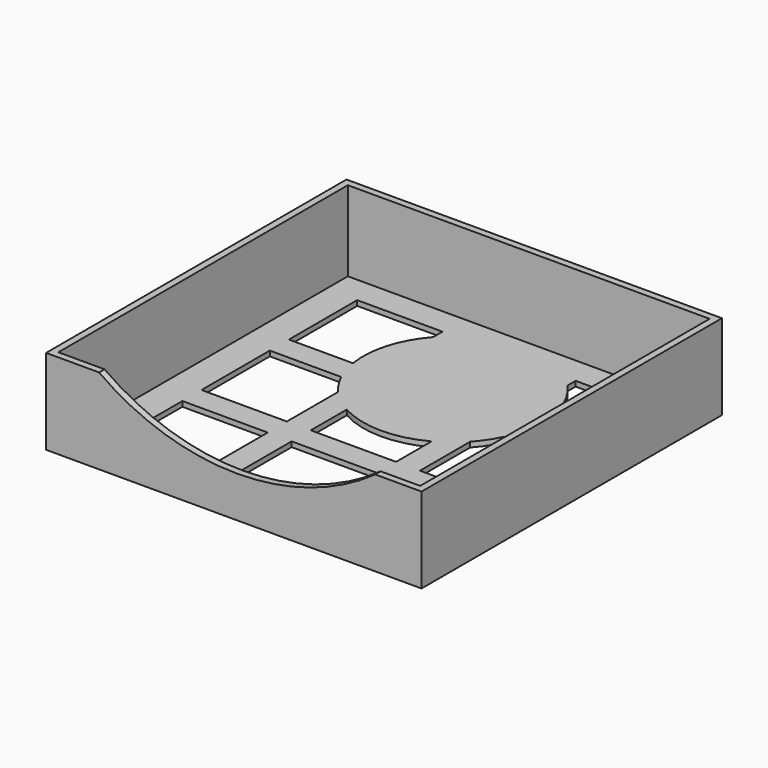
from build123d import *

# Parameters (mm, degrees)
F0_W     = 110
F0_H     = 110
F0_W_2   = 106
F0_H_2   = 106
F1_DEPTH = 25
F2_W     = 106
F2_H     = 106
F3_DEPTH = 1.5
F4_W     = 25
F4_H     = 25
F5_DEPTH = 25
F6_R     = 26.255837
F7_DEPTH = 1.5
F9_DEPTH = 25


with BuildPart() as f1:
    # F0 (on Top) → F1 (new body)
    with BuildSketch(Plane.XY):
        with Locations((55, 55)):
            Rectangle(F0_W, F0_H)
        with Locations((55, 55)):
            Rectangle(F0_W_2, F0_H_2, mode=Mode.SUBTRACT)
    extrude(amount=F1_DEPTH)

    # F2 (on Top) → F3 (join)
    with BuildSketch(Plane.XY):
        with Locations((55, 55)):
            Rectangle(F2_W, F2_H)
    extrude(amount=F3_DEPTH)

    # F4 (on Top) → F5 (cut)
    with BuildSketch(Plane.XY):
        with Locations((23.550745, 87.610851)):
            Rectangle(F4_W, F4_H)
        with Locations((23.550745, 55.610851)):
            Rectangle(F4_W, F4_H)
        with Locations((23.550745, 23.610851)):
            Rectangle(F4_W, F4_H)
        with Locations((55.550745, 87.610851)):
            Rectangle(F4_W, F4_H)
        with Locations((55.550745, 55.610851)):
            Rectangle(F4_W, F4_H)
        with Locations((55.550745, 23.610851)):
            Rectangle(F4_W, F4_H)
        with Locations((87.550745, 87.610851)):
            Rectangle(F4_W, F4_H)
        with Locations((87.550745, 55.610851)):
            Rectangle(F4_W, F4_H)
        with Locations((87.550745, 23.610851)):
            Rectangle(F4_W, F4_H)
    extrude(amount=F5_DEPTH, mode=Mode.SUBTRACT)

    # F6 (on face) → F7 (join, through all)
    with BuildSketch(Plane.XY.offset(1.5)):
        with Locations((55.742927, 79.293631)):
            Circle(F6_R)
    extrude(amount=-F7_DEPTH)

    # F8 (on face) → F9 (cut)
    with BuildSketch(Plane.XZ):
        with BuildLine():
            Line((100.912742, 28.472882), (10.870284, 28.621467))
            ThreePointArc((10.870284, 28.621467), (55.864304, 12.058173), (100.912742, 28.472882))
        make_face()
    extrude(amount=-F9_DEPTH, mode=Mode.SUBTRACT)


solid = f1.part
